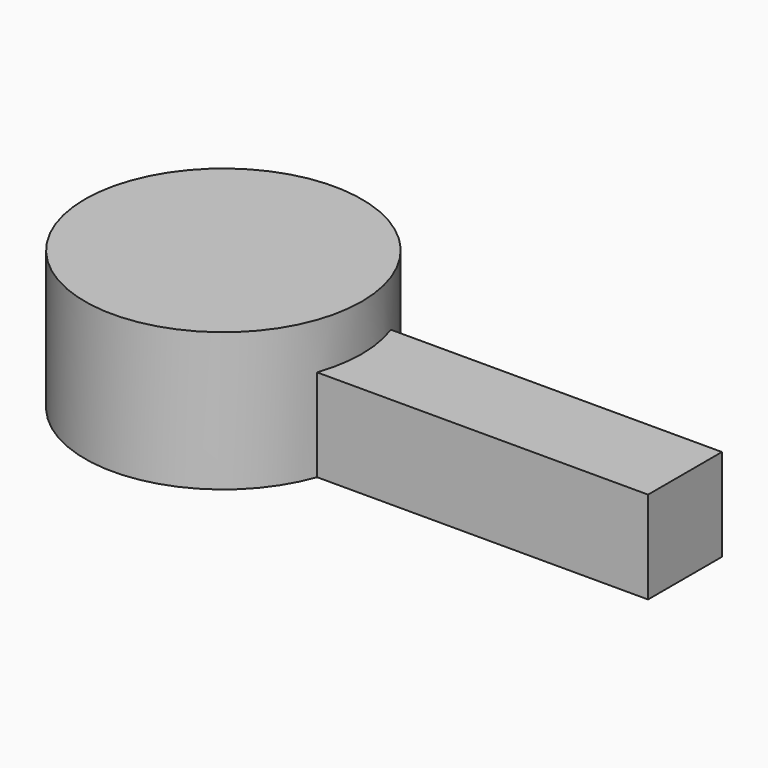
from build123d import *

# Parameters (mm, degrees)
F0_W     = 254
F0_H     = 50.8
F1_DEPTH = 25.4
F3_W     = 76.2
F3_H     = 76.2


with BuildPart() as f1:
    # F0 (on Front) → F1 (new body, symmetric)
    with BuildSketch(Plane.XZ):
        with Locations((127, 25.4)):
            Rectangle(F0_W, F0_H)
    extrude(amount=F1_DEPTH, both=True)

    # F3 (on Front) → F4 (revolve)
    with BuildSketch(Plane.XZ):
        with Locations((-38.1, 38.1)):
            Rectangle(F3_W, F3_H)
    revolve(axis=Axis((0, 0, 56.434907), (0, 0, 1)))


solid = f1.part
